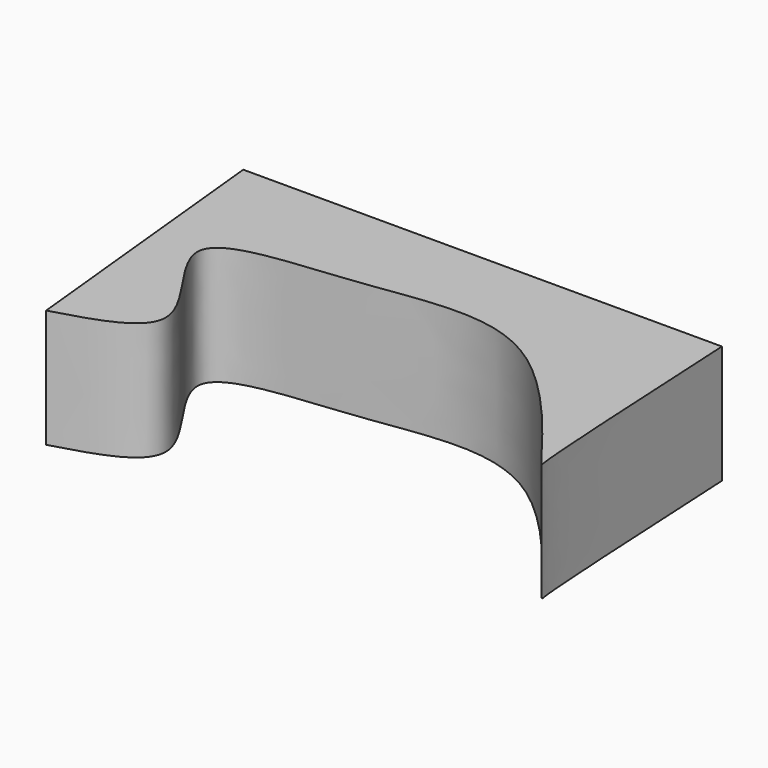
from build123d import *

# Parameters (mm, degrees)
F1_DEPTH = 25.4


with BuildPart() as f1:
    # F0 (on Top) → F1 (new body)
    with BuildSketch(Plane.XY):
        with BuildLine():
            Line((58.7123781443, 36.263525486), (-44.130217284, 36.263525486))
            Line((-44.130217284, 36.263525486), (-37.9903614521, -24.3675559759))
            add(Edge.make_bspline(
                [(-37.9903614521, -24.3675559759), (-29.2433177679, -21.8858402343), (-10.8539212298, -16.668391172), (-44.0585603675, 14.2444187872), (0.1378347675, 15.1655220812), (33.981930952, 24.8771460961), (62.4905366104, -18.0922577444), (61.2427395867, -13.3635251711), (59.9047857194, 12.877273173), (58.7123781443, 36.263525486)],
                knots=[0, 0, 0, 0, 0.1273678294, 0.2677724733, 0.4180318098, 0.5941326909, 0.7725547345, 0.7972968545, 1, 1, 1, 1], degree=3))
        make_face()
    extrude(amount=F1_DEPTH)


solid = f1.part
